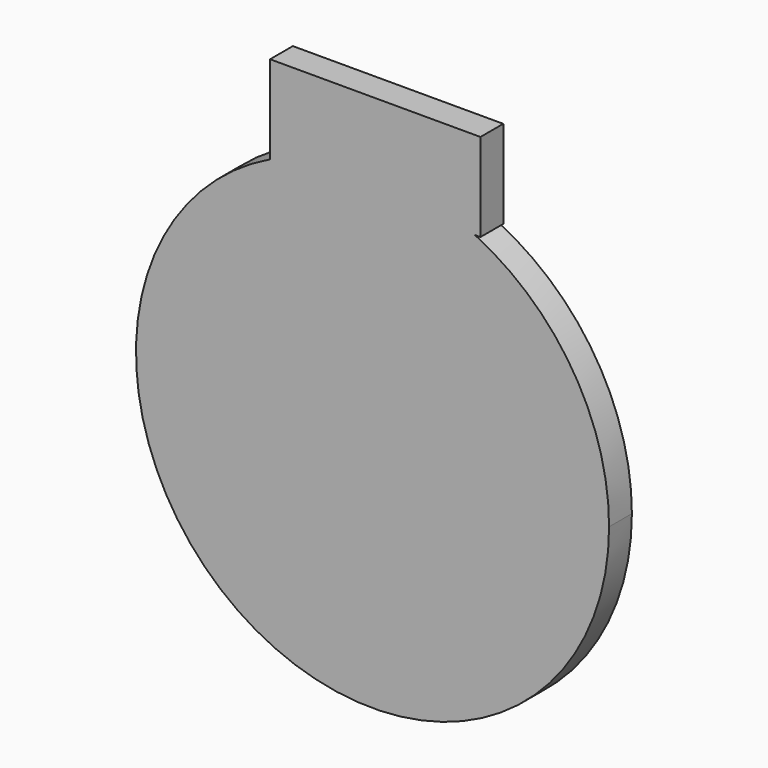
from build123d import *

# Parameters (mm, degrees)
F1_DEPTH = 7.62
F2_DEPTH = 7.62


with BuildPart() as f1:
    # F0 (on Front) → F1 (new body)
    with BuildSketch(Plane.XZ):
        with BuildLine():
            ThreePointArc((27.3958672673, 57.0028956906), (0, 63.2444753353), (-27.3958672673, 57.0028956906))
            Line((-27.3958672673, 57.0028956906), (27.3958672673, 57.0028956906))
        make_face()
        with BuildLine():
            Line((27.3958672673, 57.0028956906), (-27.3958672673, 57.0028956906))
            ThreePointArc((-27.3958672673, 57.0028956906), (-33.6691729091, -53.5373743852), (63.2444753353, 0))
            ThreePointArc((63.2444753353, 0), (53.5373743852, 33.6691729091), (27.3958672673, 57.0028956906))
        make_face()
    extrude(amount=F1_DEPTH)

    # F0 (on Front) → F2 (join)
    with BuildSketch(Plane.XZ):
        with BuildLine():
            Line((27.3958672673, 57.0028956906), (-27.3958672673, 57.0028956906))
            ThreePointArc((-27.3958672673, 57.0028956906), (-33.6691729091, -53.5373743852), (63.2444753353, 0))
            ThreePointArc((63.2444753353, 0), (53.5373743852, 33.6691729091), (27.3958672673, 57.0028956906))
        make_face()
        with BuildLine():
            Line((-27.3958672673, 80.5638059974), (-27.3958672673, 57.0028956906))
            ThreePointArc((-27.3958672673, 57.0028956906), (0, 63.2444753353), (27.3958672673, 57.0028956906))
            Line((27.3958672673, 57.0028956906), (28.8528297096, 57.0028956906))
            Line((28.8528297096, 57.0028956906), (28.8528297096, 80.5638059974))
            Line((28.8528297096, 80.5638059974), (-27.3958672673, 80.5638059974))
        make_face()
        with BuildLine():
            ThreePointArc((27.3958672673, 57.0028956906), (0, 63.2444753353), (-27.3958672673, 57.0028956906))
            Line((-27.3958672673, 57.0028956906), (27.3958672673, 57.0028956906))
        make_face()
    extrude(amount=F2_DEPTH)


solid = f1.part
